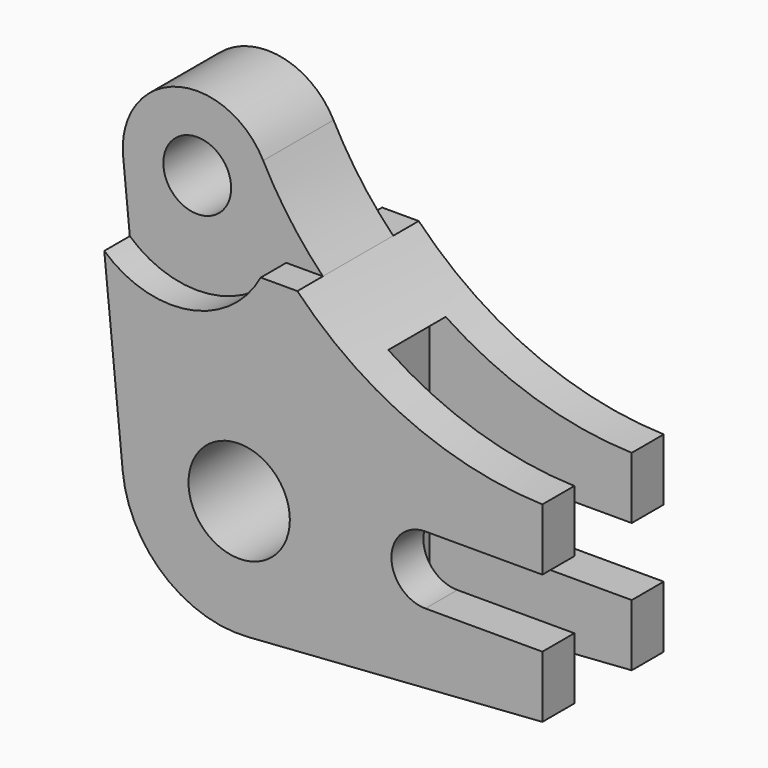
from build123d import *

# Parameters (mm, degrees)
F0_R     = 6.375
F1_DEPTH = 8.26
F0_R_2   = 9.525
F2_DEPTH = 14.26
F3_W     = 13.49
F3_H     = 58.49083
F4_DEPTH = 38


with BuildPart() as f1:
    # F0 (on Front) → F1 (new body, symmetric)
    with BuildSketch(Plane.XZ):
        with BuildLine():
            Line((-26.615233, 45.963348), (-25.360972, 33.179498))
            ThreePointArc((-25.360972, 33.179498), (-9.404585, 28.615193), (4.051067, 38.330365))
            Line((4.051067, 38.330365), (10.939452, 38.330365))
            ThreePointArc((10.939452, 38.330365), (4.770442, 45.680142), (-0.28538, 53.835787))
            ThreePointArc((-0.28538, 53.835787), (-16.692609, 60.743646), (-26.615233, 45.963348))
        make_face()
        with Locations((-12.682133, 47.330365)):
            Circle(F0_R, mode=Mode.SUBTRACT)
    extrude(amount=F1_DEPTH, both=True)

    # F0 (on Front) → F2 (join, symmetric)
    with BuildSketch(Plane.XZ):
        with BuildLine():
            Line((-25.360972, 33.179498), (-21.894871, -2.14817))
            ThreePointArc((-21.894871, -2.14817), (-14.189314, -16.812596), (1.561379, -21.944523))
            Line((1.561379, -21.944523), (57, -18))
            Line((57, -18), (57, -6.375))
            Line((57, -6.375), (35, -6.375))
            ThreePointArc((35, -6.375), (28.625, 0), (35, 6.375))
            Line((35, 6.375), (57, 6.375))
            Line((57, 6.375), (57, 18))
            ThreePointArc((57, 18), (31.987423, 23.674071), (10.939452, 38.330365))
            Line((10.939452, 38.330365), (4.051067, 38.330365))
            ThreePointArc((4.051067, 38.330365), (-9.404585, 28.615193), (-25.360972, 33.179498))
        make_face()
        Circle(F0_R_2, mode=Mode.SUBTRACT)
    extrude(amount=F2_DEPTH, both=True)

    # F3 (on face) → F4 (cut)
    with BuildSketch(Plane.YZ.offset(57)):
        with Locations((0, -0.116389)):
            Rectangle(F3_W, F3_H)
    extrude(amount=-F4_DEPTH, mode=Mode.SUBTRACT)


solid = f1.part
